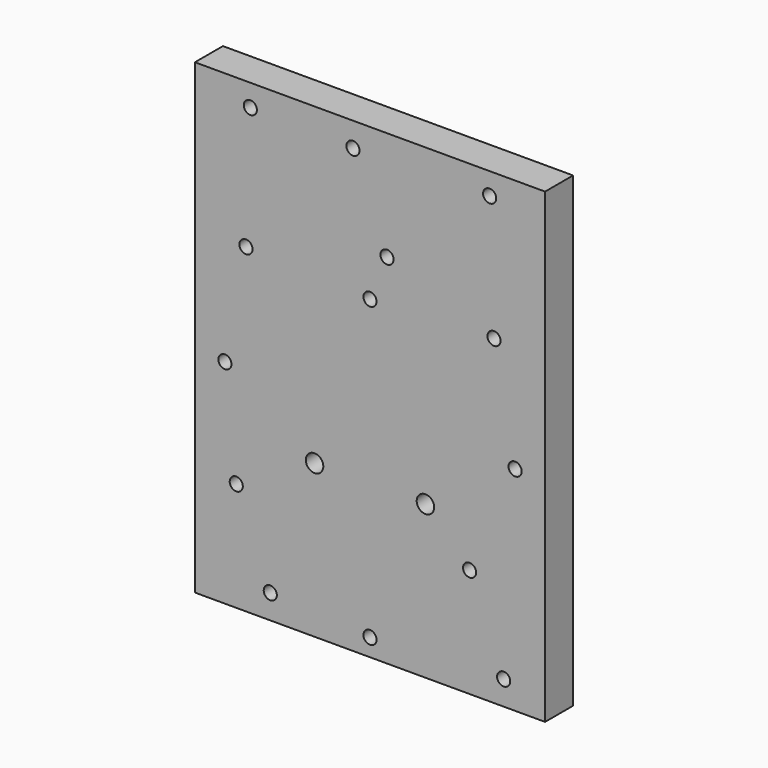
from build123d import *

# Parameters (mm, degrees)
SKETCH_W      = 120
SKETCH_H      = 160
PAD_DEPTH     = 12
SKETCH001_R   = 2.25
SKETCH001_R_2 = 3
POCKET_DEPTH  = 12.001


with BuildPart() as part:
    # Sketch → Pad (new body)
    with BuildSketch(Plane.XZ):
        with Locations((0, 80)):
            Rectangle(SKETCH_W, SKETCH_H)
    extrude(amount=PAD_DEPTH)

    # Sketch001 → Pocket (cut, through all)
    with BuildSketch(Plane.XZ.offset(12)):
        with Locations((-45.83, 37.375)):
            Circle(SKETCH001_R)
        with Locations((-34.17, 8.325)):
            Circle(SKETCH001_R)
        with Locations((34.144, 37.375)):
            Circle(SKETCH001_R)
        with Locations((45.804, 8.325)):
            Circle(SKETCH001_R)
        with Locations((-5.83, 151.675)):
            Circle(SKETCH001_R)
        with Locations((5.83, 122.625)):
            Circle(SKETCH001_R)
        with Locations((-49.725, 72.97)):
            Circle(SKETCH001_R)
        with Locations((49.725, 72.97)):
            Circle(SKETCH001_R)
        with Locations((0, 108.025)):
            Circle(SKETCH001_R)
        with Locations((-19, 52.375)):
            Circle(SKETCH001_R_2)
        with Locations((19, 52.375)):
            Circle(SKETCH001_R_2)
        with Locations((0, 6)):
            Circle(SKETCH001_R)
        with Locations((-41, 152.5)):
            Circle(SKETCH001_R)
        with Locations((41, 152.5)):
            Circle(SKETCH001_R)
        with Locations((-42.5, 110)):
            Circle(SKETCH001_R)
        with Locations((42.5, 110)):
            Circle(SKETCH001_R)
    extrude(amount=-POCKET_DEPTH, mode=Mode.SUBTRACT)


solid = part.part
